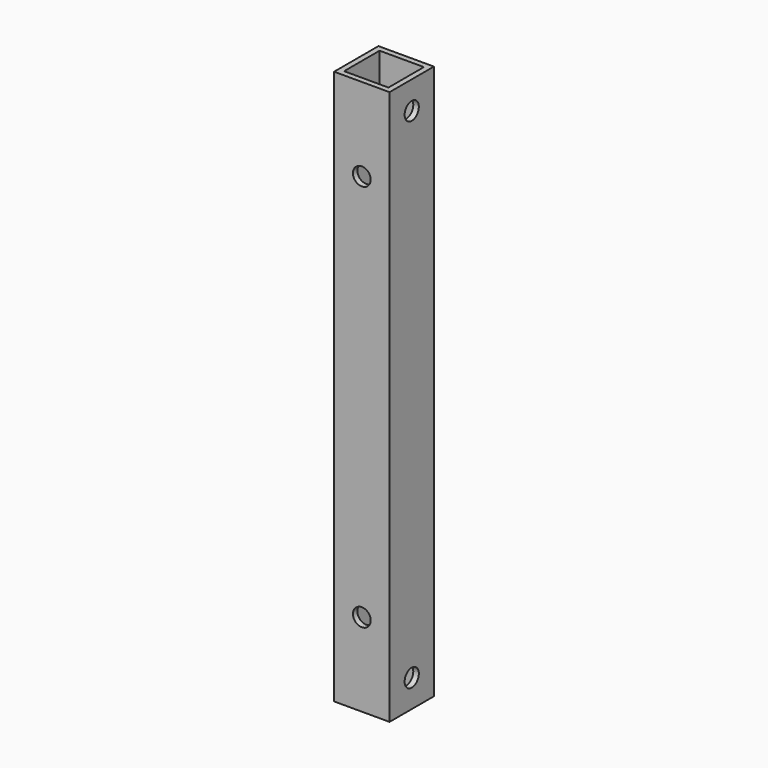
from build123d import *

# Parameters (mm, degrees)
F0_W     = 10
F0_H     = 10
F0_W_2   = 8
F0_H_2   = 8
F1_DEPTH = 100
F2_R     = 1.6
F3_DEPTH = 25
F4_D     = 3.2
F6_D     = 3.2


with BuildPart() as f1:
    # F0 (on Top) → F1 (new body)
    with BuildSketch(Plane.XY):
        with Locations((5, -5)):
            Rectangle(F0_W, F0_H)
        with Locations((5, -5)):
            Rectangle(F0_W_2, F0_H_2, mode=Mode.SUBTRACT)
    extrude(amount=F1_DEPTH)

    # F2 (on face) → F3 (cut)
    with BuildSketch(Plane.YZ.offset(10)):
        with Locations((-5, 5)):
            Circle(F2_R)
    extrude(amount=-F3_DEPTH, mode=Mode.SUBTRACT)

    # F4 (through all)
    with Locations(Plane.YZ.offset(10)):
        with Locations((-5, 95)):
            Hole(F4_D / 2)

    # F6 (through all)
    with Locations(Plane.XZ.offset(10)):
        with Locations((5, 15), (5, 85)):
            Hole(F6_D / 2)


solid = f1.part
